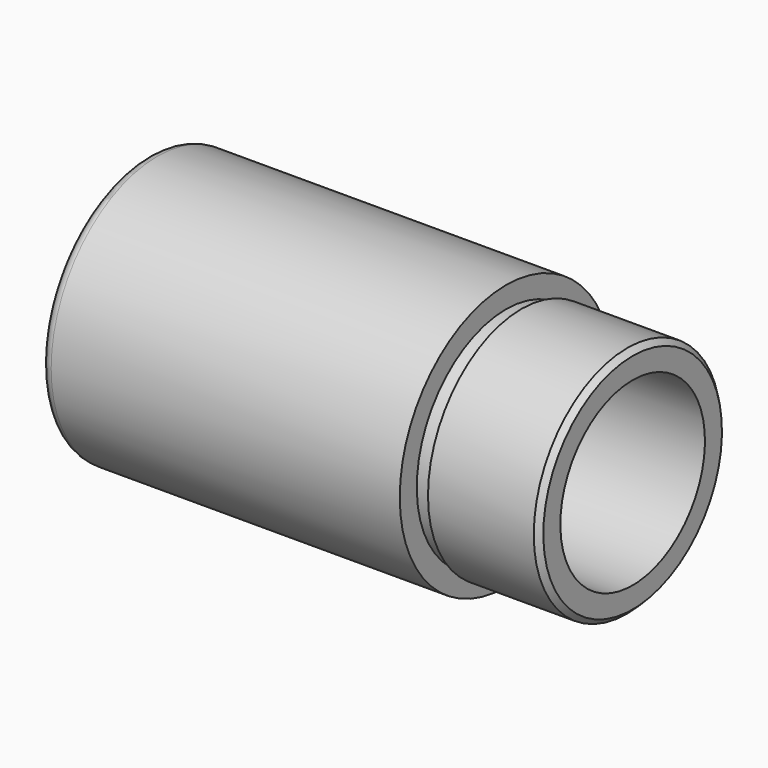
from build123d import *

# Parameters (mm, degrees)
F3_D = 18


with BuildPart() as f1:
    # F0 (on Front) → F1 (revolve)
    with BuildSketch(Plane.XZ):
        with BuildLine():
            Line((0, 584.2), (0, 0))
            Line((0, 0), (50.8, 0))
            Line((50.8, 0), (50.8, 406.4))
            ThreePointArc((50.8, 406.4), (58.2394877579, 424.3605122421), (76.2, 431.8))
            Line((76.2, 431.8), (1618.646797334, 431.8))
            Line((1618.646797334, 431.8), (2320.7796175957, 431.8))
            Line((2320.7796175957, 431.8), (2320.7796175957, 533.4))
            Line((2320.7796175957, 533.4), (2295.3796175957, 558.8))
            Line((2295.3796175957, 558.8), (1790.0687900748, 558.8))
            Line((1790.0687900748, 558.8), (1790.0687900748, 533.4))
            Line((1790.0687900748, 533.4), (1716.2160762749, 533.4))
            Line((1716.2160762749, 533.4), (1716.2160762749, 635))
            Line((1716.2160762749, 635), (50.8, 635))
            ThreePointArc((50.8, 635), (14.8789755157, 620.1210244843), (0, 584.2))
        make_face()
    revolve(axis=Axis((25.4, 0, 0), (-1, 0, 0)))

    # F3 (through all)
    with Locations(Plane(origin=(0, 0, 0), x_dir=(0, -1, 0), z_dir=(-1, 0, 0))):
        with Locations((0, 0)):
            Hole(F3_D / 2)


solid = f1.part
